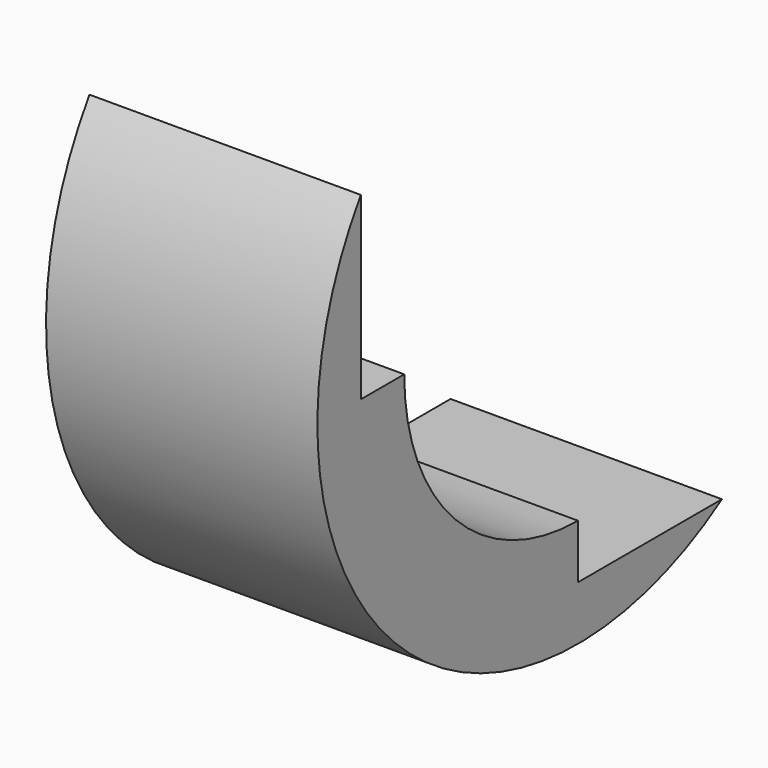
from build123d import *

# Parameters (mm, degrees)
BOX016_W      = 5
BOX016_H      = 10
BOX016_DEPTH  = 8
BOX015_W      = 5
BOX015_H      = 8
BOX015_DEPTH  = 10
TUBE007_R     = 6
TUBE007_R_2   = 4
TUBE007_DEPTH = 5


with BuildPart() as cube016:
    # Box016 → Box016 (new body)
    with BuildSketch(Plane(origin=(0, -2, 3), x_dir=(1, 0, 0), z_dir=(0, 0, 1))):
        with Locations((2.5, 5)):
            Rectangle(BOX016_W, BOX016_H)
    extrude(amount=BOX016_DEPTH)


with BuildPart() as cube015:
    # Box015 → Box015 (new body)
    with BuildSketch(Plane(origin=(0, 3, -2), x_dir=(1, 0, 0), z_dir=(0, 0, 1))):
        with Locations((2.5, 4)):
            Rectangle(BOX015_W, BOX015_H)
    extrude(amount=BOX015_DEPTH)


with BuildPart() as cut015:
    # Tube007 → Tube007 (new body)
    with BuildSketch(Plane(origin=(0, 3, 3), x_dir=(0, 0, -1), z_dir=(1, 0, 0))):
        Circle(TUBE007_R)
        Circle(TUBE007_R_2, mode=Mode.SUBTRACT)
    extrude(amount=TUBE007_DEPTH)

    # Cut014: cut Cube015
    add(cube015.part, mode=Mode.SUBTRACT)

    # Cut015: cut Cube016
    add(cube016.part, mode=Mode.SUBTRACT)


solid = cut015.part
